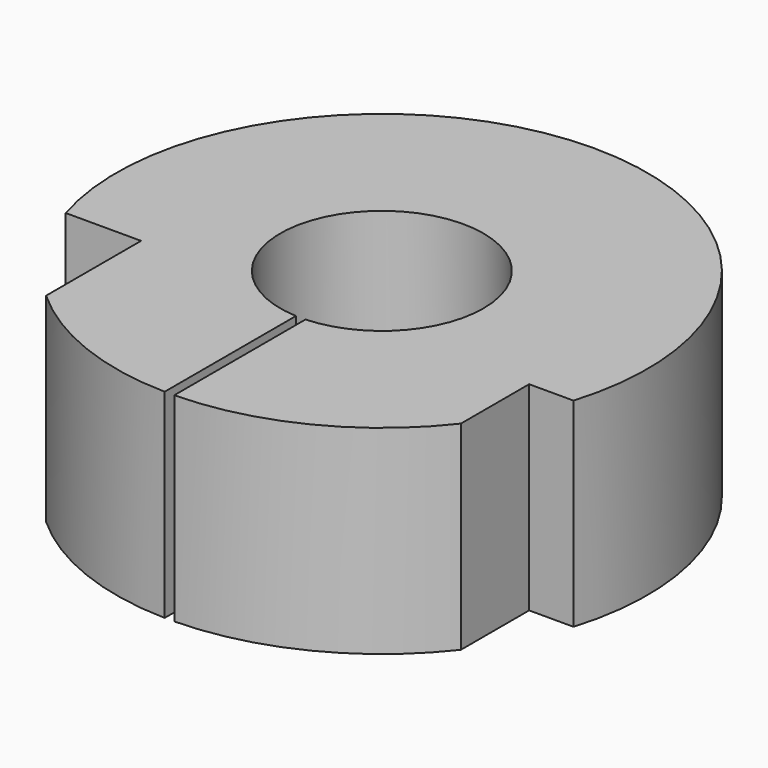
from build123d import *

# Parameters (mm, degrees)
F0_R     = 25.4
F0_R_2   = 9.5885
F1_DEPTH = 9.525
F2_W     = 11.421807
F2_H     = 11.861946
F2_W_2   = 16.656801
F2_H_2   = 15.350755
F3_DEPTH = 17.78
F4_W     = 0.9144
F4_H     = 22.793547
F5_DEPTH = 15.5956
F6_R     = 9.7155
F7_DEPTH = 38.1


with BuildPart() as f1:
    # F0 (on Top) → F1 (new body, symmetric)
    with BuildSketch(Plane.XY):
        Circle(F0_R)
        Circle(F0_R_2, mode=Mode.SUBTRACT)
    extrude(amount=F1_DEPTH, both=True)

    # F2 (on Top) → F3 (cut, symmetric)
    with BuildSketch(Plane.XY):
        with Locations((-22.791632, -13.373764)):
            Rectangle(F2_W, F2_H)
        with Locations((28.368551, -15.118168)):
            Rectangle(F2_W_2, F2_H_2)
    extrude(amount=F3_DEPTH, both=True, mode=Mode.SUBTRACT)

    # F4 (on Top) → F5 (cut, symmetric)
    with BuildSketch(Plane.XY):
        with Locations((0, -17.44404)):
            Rectangle(F4_W, F4_H)
    extrude(amount=F5_DEPTH, both=True, mode=Mode.SUBTRACT)

    # F6 (on Top) → F7 (cut, symmetric)
    with BuildSketch(Plane.XY):
        Circle(F6_R)
    extrude(amount=F7_DEPTH, both=True, mode=Mode.SUBTRACT)


solid = f1.part
